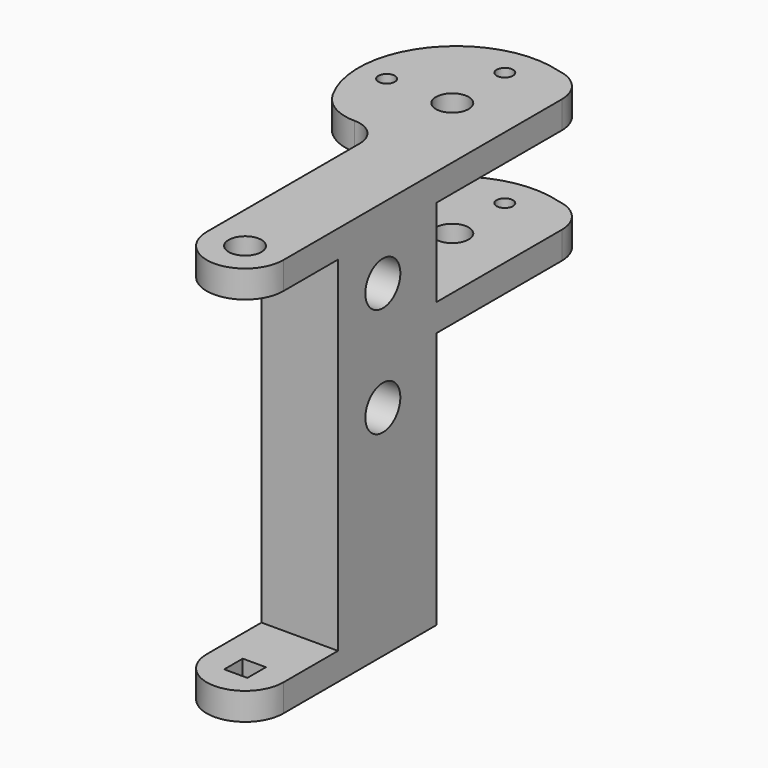
from build123d import *

# Parameters (mm, degrees)
SKETCH002_R       = 1.5
SKETCH002_R_2     = 3
PAD_DEPTH         = 5
SKETCH003_W       = 14
SKETCH003_H       = 22.5
PAD001_DEPTH      = 63
SKETCH004_W       = 4.24264
SKETCH004_H       = 4.24264
PAD002_DEPTH      = 5
SKETCH005_R       = 1.5
SKETCH005_R_2     = 3
PAD003_DEPTH      = 5
SKETCH006_R       = 4
POCKET_DEPTH      = 21.777567
POCKET_DEPTH_BACK = 7.001


with BuildPart() as part:
    # Sketch002 → Pad (new body)
    with BuildSketch(Plane.XY):
        with BuildLine():
            ThreePointArc((7, 63.652914), (5.369142, 68.007903), (1.278873, 70.220442))
            ThreePointArc((1.278873, 70.220442), (-17.873705, 64.296837), (-19.425905, 44.309315))
            ThreePointArc((-19.425905, 44.309315), (-16.29285, 41.155365), (-12, 40))
            ThreePointArc((-7, 35), (-8.464466, 38.535534), (-12, 40))
            Line((-7, 35), (-7, 0))
            ThreePointArc((-7, 0), (0, -7), (7, 0))
            Line((7, 0), (7, 63.652914))
        make_face()
        with Locations((-16.5, 53)):
            Circle(SKETCH002_R, mode=Mode.SUBTRACT)
        with Locations((-4.5, 53)):
            Circle(SKETCH002_R_2, mode=Mode.SUBTRACT)
        with Locations((-4.5, 65)):
            Circle(SKETCH002_R, mode=Mode.SUBTRACT)
        Circle(SKETCH002_R_2, mode=Mode.SUBTRACT)
    extrude(amount=PAD_DEPTH)

    # Sketch003 → Pad001 (join)
    with BuildSketch(Plane.XY):
        with Locations((0, 23.75)):
            Rectangle(SKETCH003_W, SKETCH003_H)
    extrude(amount=-PAD001_DEPTH)

    # Sketch004 (on DatumPlane) → Pad002 (join)
    with BuildSketch(Plane.XY.offset(-63)):
        with BuildLine():
            ThreePointArc((-7, 0), (0, -7), (7, 0))
            Line((7, 0), (7, 35))
            Line((7, 35), (-7, 35))
            Line((-7, 35), (-7, 0))
        make_face()
        Rectangle(SKETCH004_W, SKETCH004_H, mode=Mode.SUBTRACT)
    extrude(amount=-PAD002_DEPTH)

    # Sketch005 → Pad003 (join)
    with BuildSketch(Plane.XY.offset(-16)):
        with BuildLine():
            Line((-7, 35), (7, 35))
            Line((7, 35), (7, 63.652914))
            ThreePointArc((7, 63.652914), (5.369142, 68.007903), (1.278873, 70.220442))
            ThreePointArc((1.278873, 70.220442), (-17.873705, 64.296837), (-19.425905, 44.309315))
            ThreePointArc((-19.425905, 44.309315), (-16.29285, 41.155365), (-12, 40))
            ThreePointArc((-7, 35), (-8.464466, 38.535534), (-12, 40))
        make_face()
        with Locations((-16.5, 53)):
            Circle(SKETCH005_R, mode=Mode.SUBTRACT)
        with Locations((-4.5, 53)):
            Circle(SKETCH005_R_2, mode=Mode.SUBTRACT)
        with Locations((-4.5, 65)):
            Circle(SKETCH005_R, mode=Mode.SUBTRACT)
    extrude(amount=-PAD003_DEPTH)

    # Sketch006 → Pocket (cut, two sides)
    with BuildSketch(Plane.YZ) as pocket_sk:
        with Locations((22.75, -8)):
            Circle(SKETCH006_R)
        with Locations((22.75, -28)):
            Circle(SKETCH006_R)
    extrude(amount=-POCKET_DEPTH, mode=Mode.SUBTRACT)
    extrude(pocket_sk.sketch, amount=POCKET_DEPTH_BACK, mode=Mode.SUBTRACT)


with BuildPart() as part_1:
    # Body placement: moved
    add(part.part.moved(Location((0, 0, -5))))


solid = part_1.part
